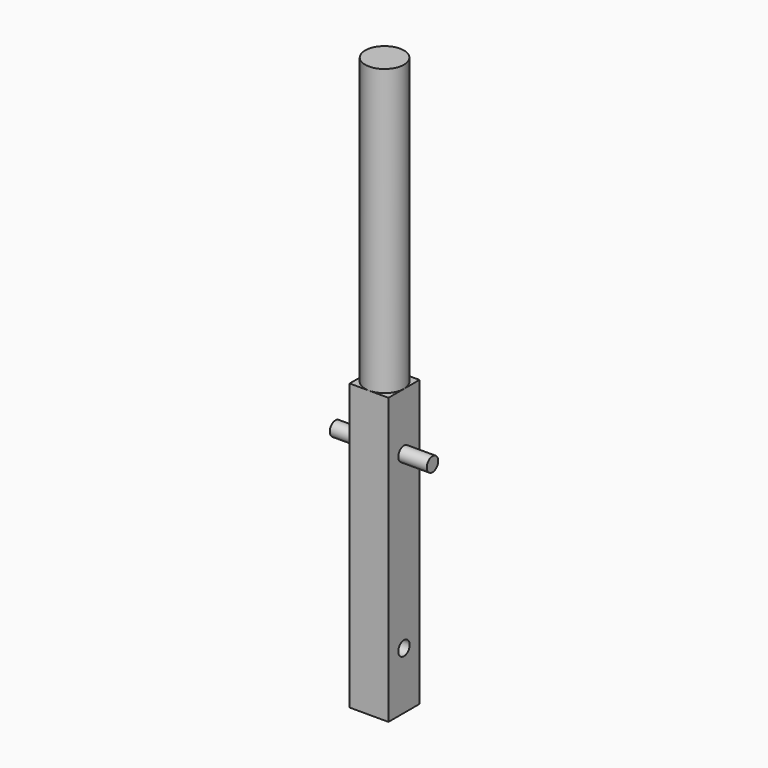
from build123d import *

# Parameters (mm, degrees)
F0_W          = 8.636
F0_H          = 8.636
F1_DEPTH      = 63.5
F2_R          = 4.318
F3_DEPTH      = 63.5
F4_R          = 1.5875
F5_DEPTH      = 25.4
F6_R          = 1.5875
F7_DEPTH      = 6.35
F7_DEPTH_BACK = 15.24


with BuildPart() as f1:
    # F0 (on Top) → F1 (new body)
    with BuildSketch(Plane.XY):
        Rectangle(F0_W, F0_H)
    extrude(amount=F1_DEPTH)

    # F2 (on face) → F3 (join)
    with BuildSketch(Plane.XY.offset(63.5)):
        Circle(F2_R)
    extrude(amount=F3_DEPTH)

    # F4 (on face) → F5 (cut)
    with BuildSketch(Plane.YZ.offset(4.318)):
        with Locations((0, 12.7)):
            Circle(F4_R)
    extrude(amount=-F5_DEPTH, mode=Mode.SUBTRACT)

    # F6 (on face) → F7 (join, two sides)
    with BuildSketch(Plane.YZ.offset(4.318)) as f7_sk:
        with Locations((0, 50.8)):
            Circle(F6_R)
    extrude(amount=F7_DEPTH)
    extrude(f7_sk.sketch, amount=-F7_DEPTH_BACK)


solid = f1.part
